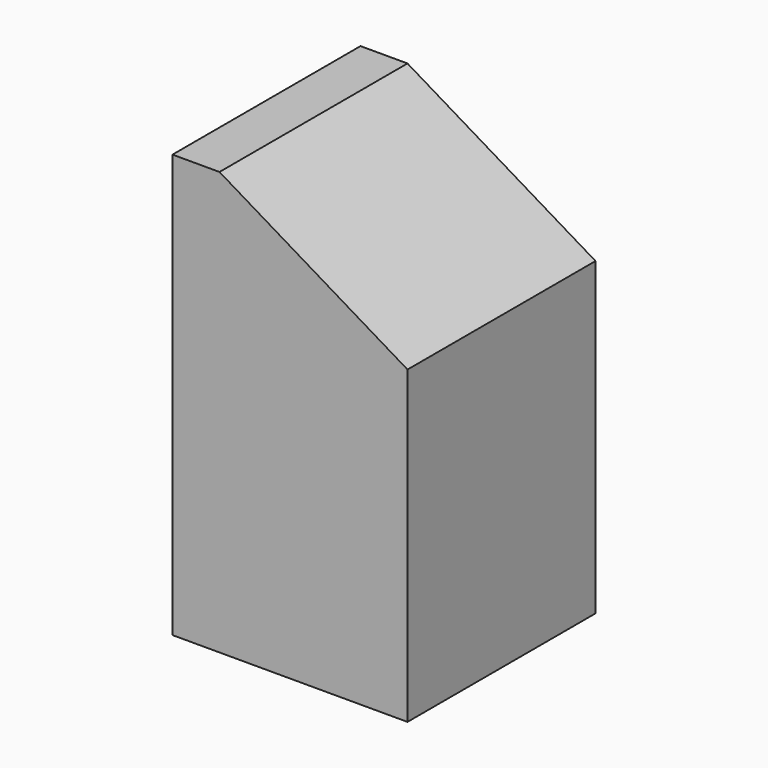
from build123d import *

# Parameters (mm, degrees)
SKETCH010_W     = 16
SKETCH010_H     = 16
PAD007_DEPTH    = 28.8
POCKET003_DEPTH = 16
SKETCH130_W     = 3.2
SKETCH130_H     = 3.2
PAD130_DEPTH    = 16


with BuildPart() as part:
    # Sketch010 (on Face84 of Binder003) → Pad007 (new body)
    with BuildSketch(Plane.XY.offset(-28.8)):
        with Locations((135.8, 64)):
            Rectangle(SKETCH010_W, SKETCH010_H)
    extrude(amount=PAD007_DEPTH)

    # Sketch011 (on Face2 of Pad007) → Pocket003 (cut)
    with BuildSketch(Plane.XZ.offset(-56)):
        Polygon((143.8, -9.6), (127.8, 0), (143.8, 0), align=None)
    extrude(amount=-POCKET003_DEPTH, mode=Mode.SUBTRACT)

    # Sketch130 (on Face2 of Pocket003) → Pad130 (join)
    with BuildSketch(Plane(origin=(0, 72, 0), x_dir=(-1, 0, 0), z_dir=(0, 1, 0))):
        with Locations((-129.4, -1.6)):
            Rectangle(SKETCH130_W, SKETCH130_H)
        Polygon((-131, 0), (-143.8, -7.68), (-143.8, -10.88), (-131, -3.2), align=None)
    extrude(amount=-PAD130_DEPTH)


solid = part.part
